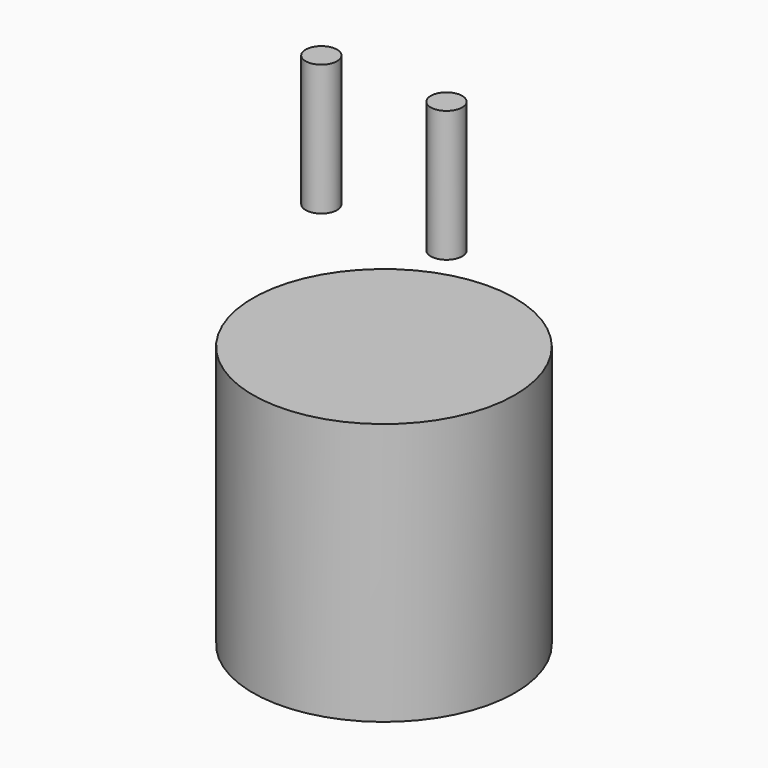
from build123d import *

# Parameters (mm, degrees)
F1_R     = 25
F2_DEPTH = 50
F4_R     = 3
F5_DEPTH = 25


with BuildPart() as f2:
    # F1 (on offset) → F2 (new body)
    with BuildSketch(Plane.XY.offset(25)):
        Circle(F1_R)
    extrude(amount=-F2_DEPTH)


with BuildPart() as f5:
    # F4 (on offset) → F5 (new body)
    with BuildSketch(Plane.XY.offset(45)):
        with Locations((-11.93184, 0)):
            Circle(F4_R)
        with Locations((11.93184, 0)):
            Circle(F4_R)
    extrude(amount=F5_DEPTH)


solid = Compound([f2.part, f5.part])
